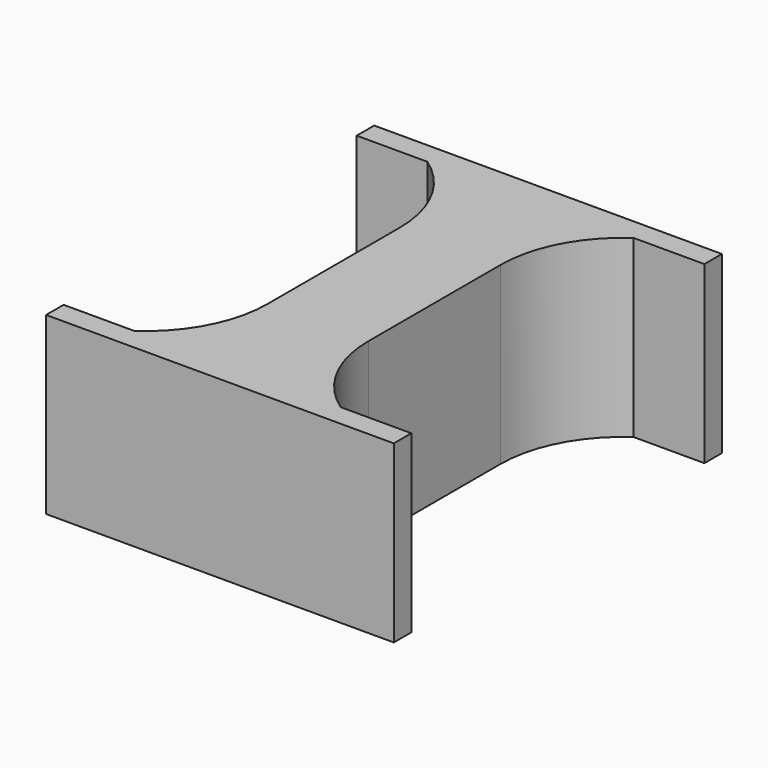
from build123d import *

# Parameters (mm, degrees)
F1_DEPTH = 10


with BuildPart() as f1:
    # F0 (on Top) → F1 (new body)
    with BuildSketch(Plane.XY):
        with BuildLine():
            Line((2.875, 0), (0, 0))
            Line((0, 0), (-2.875, 0))
            Line((-2.875, 0), (-2.875, -4.7))
            ThreePointArc((-2.875, -4.7), (-3.672315, -7.944487), (-5.882627, -10.449866))
            Line((-5.882627, -10.449866), (-9.918279, -10.449866))
            Line((-9.918279, -10.449866), (-9.918279, -11.699866))
            Line((-9.918279, -11.699866), (-9.831721, -11.699866))
            Line((-9.831721, -11.699866), (0, -11.699866))
            Line((0, -11.699866), (9.831721, -11.699866))
            Line((9.831721, -11.699866), (9.918279, -11.699866))
            Line((9.918279, -11.699866), (9.918279, -10.449866))
            Line((9.918279, -10.449866), (5.882627, -10.449866))
            ThreePointArc((5.882627, -10.449866), (3.672315, -7.944487), (2.875, -4.7))
            Line((2.875, -4.7), (2.875, 0))
        make_face()
        with BuildLine():
            Line((-2.875, 0), (0, 0))
            Line((0, 0), (2.875, 0))
            Line((2.875, 0), (2.875, 4.7))
            ThreePointArc((2.875, 4.7), (3.672315, 7.944487), (5.882627, 10.449866))
            Line((5.882627, 10.449866), (9.918279, 10.449866))
            Line((9.918279, 10.449866), (9.918279, 11.699866))
            Line((9.918279, 11.699866), (9.831721, 11.699866))
            Line((9.831721, 11.699866), (0, 11.699866))
            Line((0, 11.699866), (-9.831721, 11.699866))
            Line((-9.831721, 11.699866), (-9.918279, 11.699866))
            Line((-9.918279, 11.699866), (-9.918279, 10.449866))
            Line((-9.918279, 10.449866), (-5.882627, 10.449866))
            ThreePointArc((-5.882627, 10.449866), (-3.672315, 7.944487), (-2.875, 4.7))
            Line((-2.875, 4.7), (-2.875, 0))
        make_face()
    extrude(amount=F1_DEPTH)


solid = f1.part
